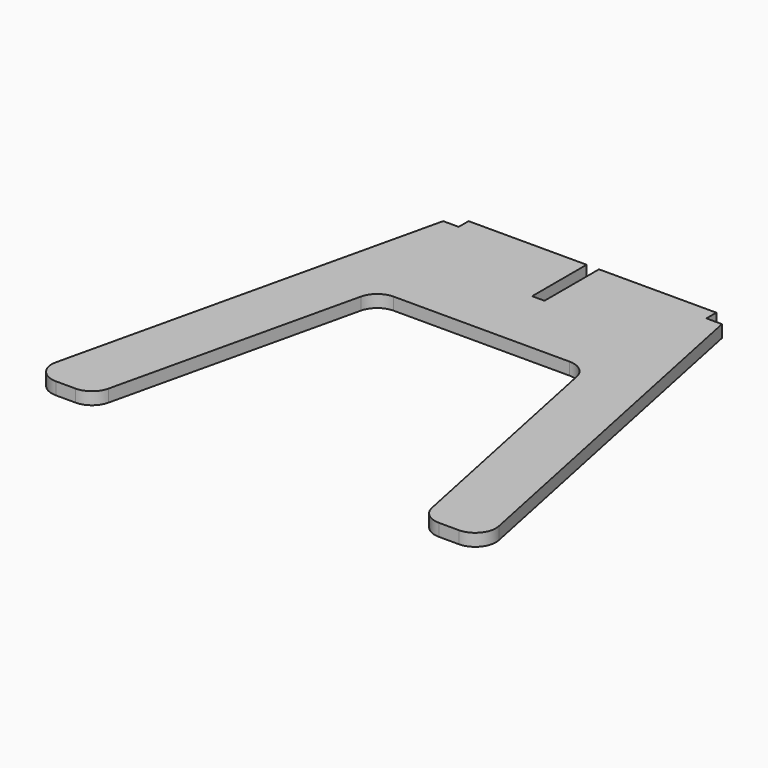
from build123d import *

# Parameters (mm, degrees)
F1_DEPTH = 3


with BuildPart() as f1:
    # F0 (on Top) → F1 (new body)
    with BuildSketch(Plane.XY):
        with BuildLine():
            Line((-1.5, 50.110632), (-30.082805, 50.110632))
            Line((-30.082805, 50.110632), (-30.082805, 47.110632))
            Line((-30.082805, 47.110632), (-33.840805, 47.110632))
            Line((-33.840805, 47.110632), (-54.905096, -43.760283))
            ThreePointArc((-54.905096, -43.760283), (-53.948671, -48.000202), (-50.034247, -49.889368))
            Line((-50.034247, -49.889368), (-45.299399, -49.889368))
            ThreePointArc((-45.299399, -49.889368), (-42.188565, -48.803792), (-40.42855, -46.018453))
            Line((-40.42855, -46.018453), (-26.692237, 13.239717))
            ThreePointArc((-26.692237, 13.239717), (-24.932222, 16.025056), (-21.821388, 17.110632))
            Line((-21.821388, 17.110632), (20.785474, 17.110632))
            ThreePointArc((20.785474, 17.110632), (23.94392, 15.986741), (25.682466, 13.120321))
            Line((25.682466, 13.120321), (37.85141, -45.899057))
            ThreePointArc((37.85141, -45.899057), (39.589956, -48.765477), (42.748401, -49.889368))
            Line((42.748401, -49.889368), (47.538051, -49.889368))
            ThreePointArc((47.538051, -49.889368), (51.414161, -48.047813), (52.435043, -43.879679))
            Line((52.435043, -43.879679), (33.674154, 47.110632))
            Line((33.674154, 47.110632), (29.917195, 47.110632))
            Line((29.917195, 47.110632), (29.917195, 50.110632))
            Line((29.917195, 50.110632), (1.5, 50.110632))
            Line((1.5, 50.110632), (1.5, 33.610632))
            Line((1.5, 33.610632), (0, 33.610632))
            Line((0, 33.610632), (-1.5, 33.610632))
            Line((-1.5, 33.610632), (-1.5, 50.110632))
        make_face()
    extrude(amount=F1_DEPTH)


solid = f1.part
